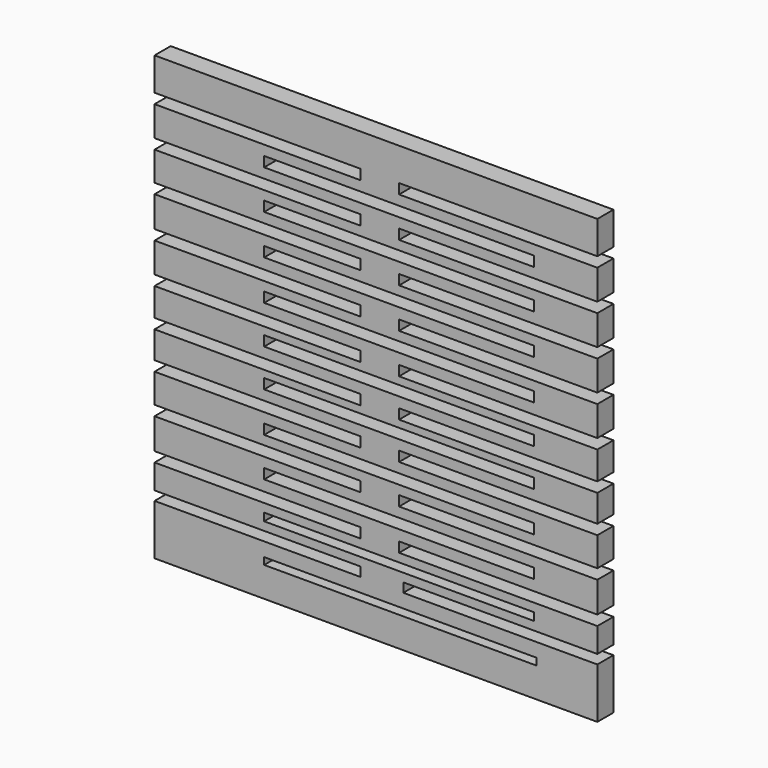
from build123d import *

# Parameters (mm, degrees)
F0_W     = 67.597946
F0_H     = 1.718592
F0_W_2   = 67.025
F0_H_2   = 1.909549
F0_H_3   = 2.5
F1_DEPTH = 5


with BuildPart() as f1:
    # F0 (on Front) → F1 (new body)
    with BuildSketch(Plane.XZ):
        Polygon((54.410804, 59.911989), (-55.589196, 59.911989), (-55.589196, 51.747056), (-4.487936, 51.747056), (-4.487936, 49.247056), (-55.589196, 49.247056), (-55.589196, 41.80489), (-4.487936, 41.80489), (-4.487936, 39.30489), (-55.589196, 39.30489), (-55.589196, 32.05392), (-4.487936, 32.05392), (-4.487936, 29.55392), (-55.589196, 29.55392), (-55.589196, 21.920557), (-4.487936, 21.920557), (-4.487936, 19.420557), (-55.589196, 19.420557), (-55.589196, 11.978389), (-4.487936, 11.978389), (-4.487936, 9.478389), (-55.589196, 9.478389), (-55.589196, 2.5), (-4.487936, 2.5), (-4.487936, 0), (-55.589196, 0), (-55.589196, -6.758772), (-4.487936, -6.758772), (-4.487936, -9.258772), (-55.589196, -9.258772), (-55.589196, -16.499988), (-4.487936, -16.499988), (-4.487936, -18.999988), (-55.589196, -18.999988), (-55.589196, -26.638176), (-4.487936, -26.638176), (-4.487936, -29.120585), (-55.589196, -29.120585), (-55.589196, -35.231136), (-4.487936, -35.231136), (-4.487936, -37.522592), (-55.589196, -37.522592), (-55.589196, -50.088011), (54.410804, -50.088011), (54.410804, -37.522592), (6.205984, -37.522592), (6.205984, -35.231136), (54.410804, -35.231136), (54.410804, -29.120585), (5.156064, -29.120585), (5.156064, -26.620585), (54.410804, -26.620585), (54.410804, -18.999988), (5.156064, -18.999988), (5.156064, -16.499988), (54.410804, -16.499988), (54.410804, -9.258772), (5.156064, -9.258772), (5.156064, -6.758772), (54.410804, -6.758772), (54.410804, 0), (5.156064, 0), (5.156064, 2.5), (54.410804, 2.5), (54.410804, 9.478389), (5.156064, 9.478389), (5.156064, 11.978389), (54.410804, 11.978389), (54.410804, 19.420557), (5.156064, 19.420557), (5.156064, 21.920557), (54.410804, 21.920557), (54.410804, 29.362723), (5.156064, 29.362723), (5.156064, 31.862723), (54.410804, 31.862723), (54.410804, 39.30489), (5.156064, 39.30489), (5.156064, 41.80489), (54.410804, 41.80489), (54.410804, 49.247056), (5.156064, 49.247056), (5.156064, 51.747056), (54.410804, 51.747056), align=None)
        with Locations((5.442537, -41.819068)):
            Rectangle(F0_W, F0_H, mode=Mode.SUBTRACT)
        with Locations((5.156064, -32.17586)):
            Rectangle(F0_W_2, F0_H_2, mode=Mode.SUBTRACT)
        with Locations((5.156064, -22.714809)):
            Rectangle(F0_W_2, F0_H_3, mode=Mode.SUBTRACT)
        with Locations((5.156064, -12.979856)):
            Rectangle(F0_W_2, F0_H_3, mode=Mode.SUBTRACT)
        with Locations((5.156064, -3.037689)):
            Rectangle(F0_W_2, F0_H_3, mode=Mode.SUBTRACT)
        with Locations((5.156064, 6.330893)):
            Rectangle(F0_W_2, F0_H_3, mode=Mode.SUBTRACT)
        with Locations((5.156064, 15.890669)):
            Rectangle(F0_W_2, F0_H_3, mode=Mode.SUBTRACT)
        with Locations((5.156064, 25.832837)):
            Rectangle(F0_W_2, F0_H_3, mode=Mode.SUBTRACT)
        with Locations((5.156064, 35.775003)):
            Rectangle(F0_W_2, F0_H_3, mode=Mode.SUBTRACT)
        with Locations((5.156064, 45.525977)):
            Rectangle(F0_W_2, F0_H_3, mode=Mode.SUBTRACT)
    extrude(amount=F1_DEPTH)


solid = f1.part
